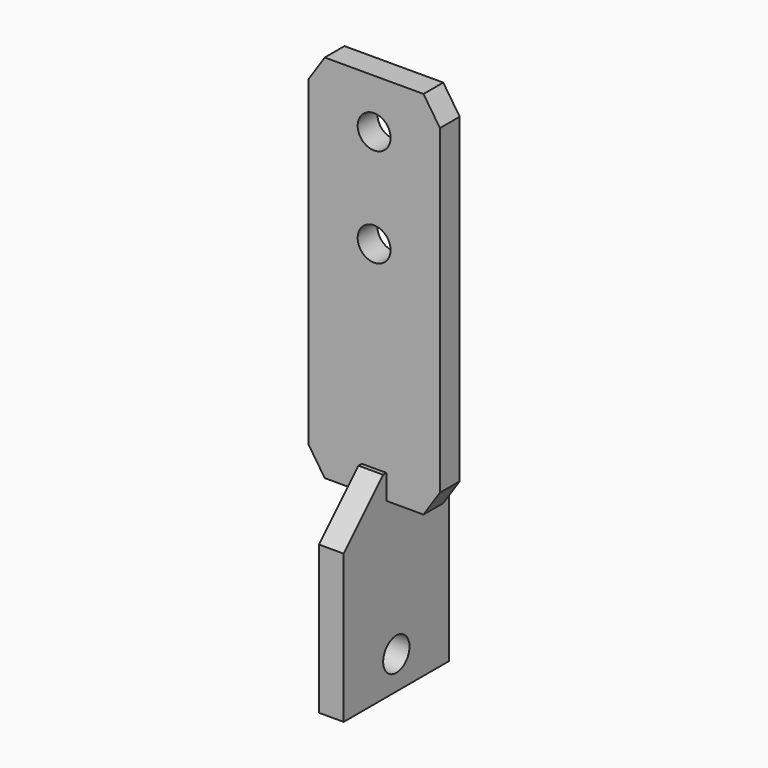
from build123d import *

# Parameters (mm, degrees)
F0_R     = 6.35
F1_DEPTH = 9.525
F3_START = -20.6375
F2_R     = 6.35
F3_DEPTH = 9.525


with BuildPart() as f1:
    # F0 (on Front) → F1 (new body)
    with BuildSketch(Plane.XZ):
        Polygon((-19.05, 147.1890725479), (-25.4, 137.6710385084), (-25.4, 75.7550555281), (-25.4, 13.8390725479), (-19.05, 4.3210385084), (19.05, 4.3210385084), (25.4, 13.8390725479), (25.4, 75.7550555281), (25.4, 137.6710385084), (19.05, 147.1890725479), align=None)
        with Locations((0, 90.0390725479)):
            Circle(F0_R, mode=Mode.SUBTRACT)
        with Locations((0, 128.1390725479)):
            Circle(F0_R, mode=Mode.SUBTRACT)
    extrude(amount=F1_DEPTH)

    # F2 (on face) → F3 (join)
    with BuildSketch(Plane.YZ.offset(25.4).offset(F3_START)):
        Polygon((-9.525, 13.8390725479), (-11.1125, 13.8390725479), (-30.1625, -5.2109274521), (-30.1625, -62.3609274521), (20.6375, -62.3609274521), (20.6375, -5.2109274521), (1.5875, 13.8390725479), (0, 13.8390725479), align=None)
        with Locations((-4.7625, -49.6609274521)):
            Circle(F2_R, mode=Mode.SUBTRACT)
    extrude(amount=-F3_DEPTH)


solid = f1.part
